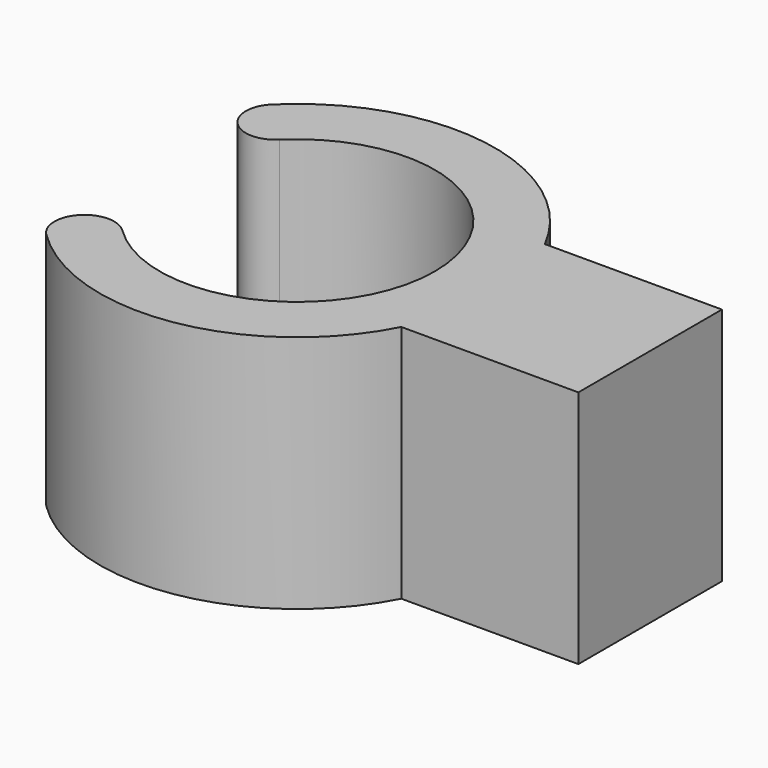
from build123d import *

# Parameters (mm, degrees)
F1_DEPTH = 508


with BuildPart() as f1:
    # F0 (on Top) → F1 (new body)
    with BuildSketch(Plane.XY):
        with BuildLine():
            ThreePointArc((-204.427415, 208.642857), (292.1, 0), (-204.427415, -208.642857))
            ThreePointArc((-204.427415, -208.642857), (-294.225301, -209.559258), (-293.3089, -299.357143))
            ThreePointArc((-293.3089, -299.357143), (67.544081, -413.621333), (373.302237, -190.5))
            Line((373.302237, -190.5), (419.1, -190.5))
            Line((419.1, -190.5), (749.3, -190.5))
            Line((749.3, -190.5), (749.3, 0))
            Line((749.3, 0), (749.3, 190.5))
            Line((749.3, 190.5), (419.1, 190.5))
            Line((419.1, 190.5), (373.302237, 190.5))
            ThreePointArc((373.302237, 190.5), (67.544081, 413.621333), (-293.3089, 299.357143))
            ThreePointArc((-293.3089, 299.357143), (-294.225301, 209.559258), (-204.427415, 208.642857))
        make_face()
    extrude(amount=F1_DEPTH)


solid = f1.part
